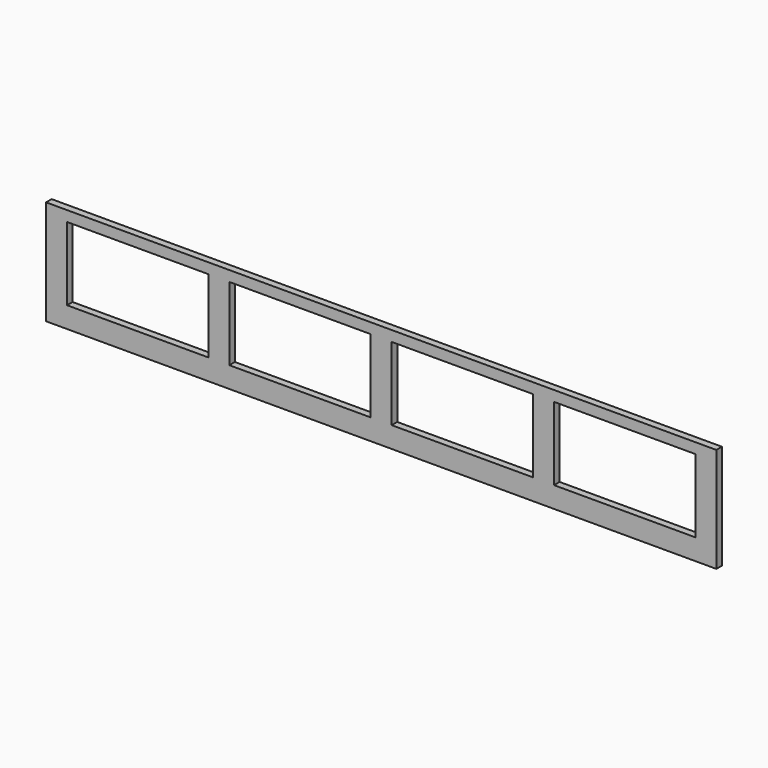
from build123d import *

# Parameters (mm, degrees)
F0_W     = 2438.4
F0_H     = 381
F1_DEPTH = 25.4
F2_W     = 514.35
F2_H     = 266.7
F3_DEPTH = 25.4


with BuildPart() as f1:
    # F0 (on Front) → F1 (new body)
    with BuildSketch(Plane.XZ):
        with Locations((1219.2, 190.5)):
            Rectangle(F0_W, F0_H)
    extrude(amount=F1_DEPTH)

    # F2 (on face) → F3 (cut)
    with BuildSketch(Plane.XZ.offset(25.4)):
        with Locations((333.375, 209.55)):
            Rectangle(F2_W, F2_H)
        with Locations((923.925, 209.55)):
            Rectangle(F2_W, F2_H)
        with Locations((1514.475, 209.55)):
            Rectangle(F2_W, F2_H)
        with Locations((2105.025, 209.55)):
            Rectangle(F2_W, F2_H)
    extrude(amount=-F3_DEPTH, mode=Mode.SUBTRACT)


solid = f1.part
